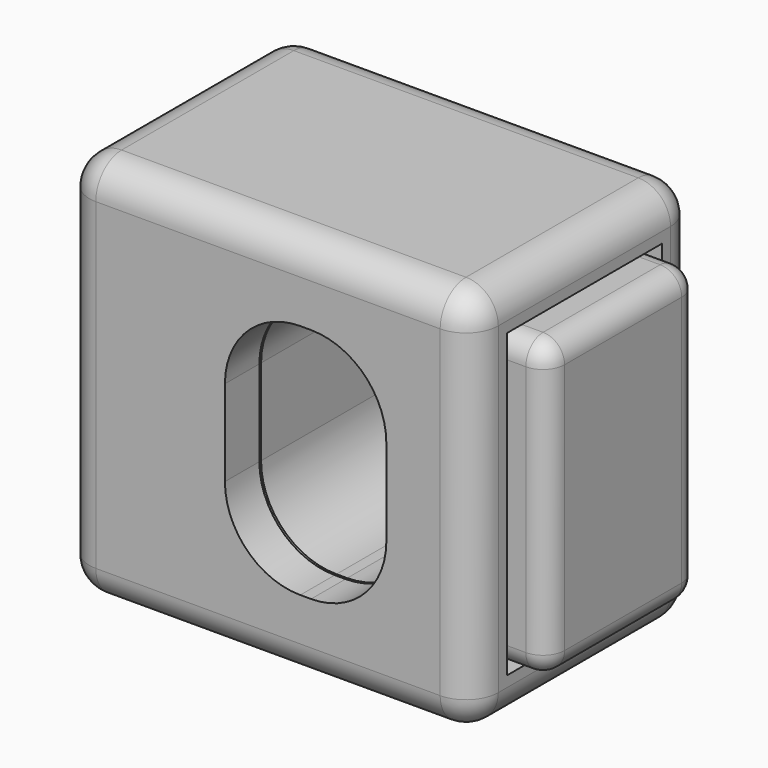
from build123d import *

# Parameters (mm, degrees)
F0_W     = 19
F0_H     = 18
F1_DEPTH = 6.5
F2_T     = -2
F3_R     = 1.5
F5_W     = 8.8
F5_H     = 13.688888
F6_DEPTH = 14.8
F8_R     = 1
F9_DEPTH = 12.5


with BuildPart() as f1:
    # F0 (on Front) → F1 (new body, symmetric)
    with BuildSketch(Plane.XZ):
        Rectangle(F0_W, F0_H)
    extrude(amount=F1_DEPTH, both=True)

    # F2
    f2_openings = [f1.faces().sort_by_distance(p)[0] for p in [
        (9.5, 0, 0),
    ]]
    offset(amount=F2_T, openings=f2_openings)

    # F3
    f3_edges = [f1.edges().sort_by_distance(p)[0] for p in [
        (0, 6.5, 9),
        (0, 6.5, -9),
        (0, -6.5, 9),
        (0, -6.5, -9),
        (9.5, -6.5, 0),
        (9.5, 6.5, 0),
        (-9.5, 0, 9),
        (9.5, 0, 9),
        (9.5, 0, -9),
        (-9.5, 0, -9),
        (-9.5, 6.5, 0),
        (-9.5, -6.5, 0),
    ]]
    fillet(f3_edges, radius=F3_R)


with BuildPart() as f6:
    # F5 (on offset) → F6 (new body)
    with BuildSketch(Plane.YZ.offset(11.3)):
        Rectangle(F5_W, F5_H)
    extrude(amount=-F6_DEPTH)

    # F8
    f8_edges = [f6.edges().sort_by_distance(p)[0] for p in [
        (11.3, 4.4, 0),
        (11.3, 0, -6.844444),
        (11.3, -4.4, 0),
        (11.3, 0, 6.844444),
        (3.9, 4.4, -6.844444),
        (3.9, 4.4, 6.844444),
        (3.9, -4.4, 6.844444),
        (3.9, -4.4, -6.844444),
    ]]
    fillet(f8_edges, radius=F8_R)


with BuildPart() as f9_tool:
    # F7 (on Front) → F9 (new body, symmetric)
    with BuildSketch(Plane.XZ):
        with BuildLine():
            Line((2, 5.5), (1.5, 5.5))
            ThreePointArc((1.5, 5.5), (-0.974874, 4.474874), (-2, 2))
            Line((-2, 2), (-2, -2))
            ThreePointArc((-2, -2), (-0.974874, -4.474874), (1.5, -5.5))
            Line((1.5, -5.5), (2, -5.5))
            ThreePointArc((2, -5.5), (4.474874, -4.474874), (5.5, -2))
            Line((5.5, -2), (5.5, 2))
            ThreePointArc((5.5, 2), (4.474874, 4.474874), (2, 5.5))
        make_face()
    extrude(amount=F9_DEPTH, both=True)


with BuildPart() as f1_1:
    add(f1.part)

    # F9: cut by f9_tool
    add(f9_tool.part, mode=Mode.SUBTRACT)


with BuildPart() as f6_1:
    add(f6.part)

    # F9: cut by f9_tool
    add(f9_tool.part, mode=Mode.SUBTRACT)


solid = Compound([f1_1.part, f6_1.part])
